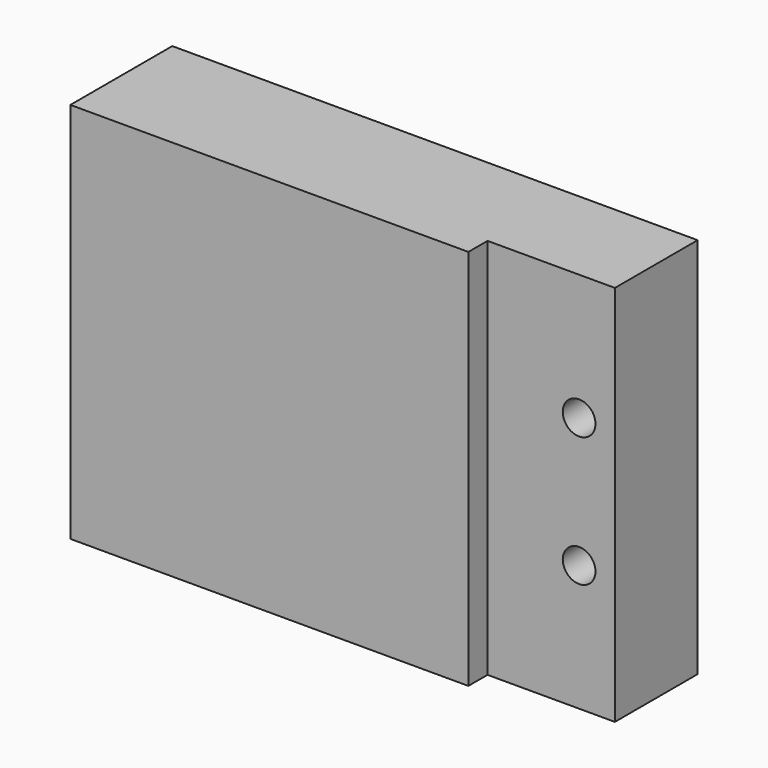
from build123d import *

# Parameters (mm, degrees)
F0_W     = 104.775
F0_H     = 76.2
F1_DEPTH = 25.4
F2_W     = 25.4
F2_H     = 76.2
F3_DEPTH = 4.7752
F5_D     = 6.5278


with BuildPart() as f1:
    # F0 (on Front) → F1 (new body)
    with BuildSketch(Plane.XZ):
        Rectangle(F0_W, F0_H)
    extrude(amount=F1_DEPTH)

    # F2 (on face) → F3 (cut)
    with BuildSketch(Plane.XZ.offset(25.4)):
        with Locations((39.6875, 0)):
            Rectangle(F2_W, F2_H)
    extrude(amount=-F3_DEPTH, mode=Mode.SUBTRACT)

    # F5 (through all)
    with Locations(Plane.XZ.offset(20.6248)):
        with Locations((45.2501, -12.954), (45.2501, 12.954)):
            Hole(F5_D / 2)


solid = f1.part
